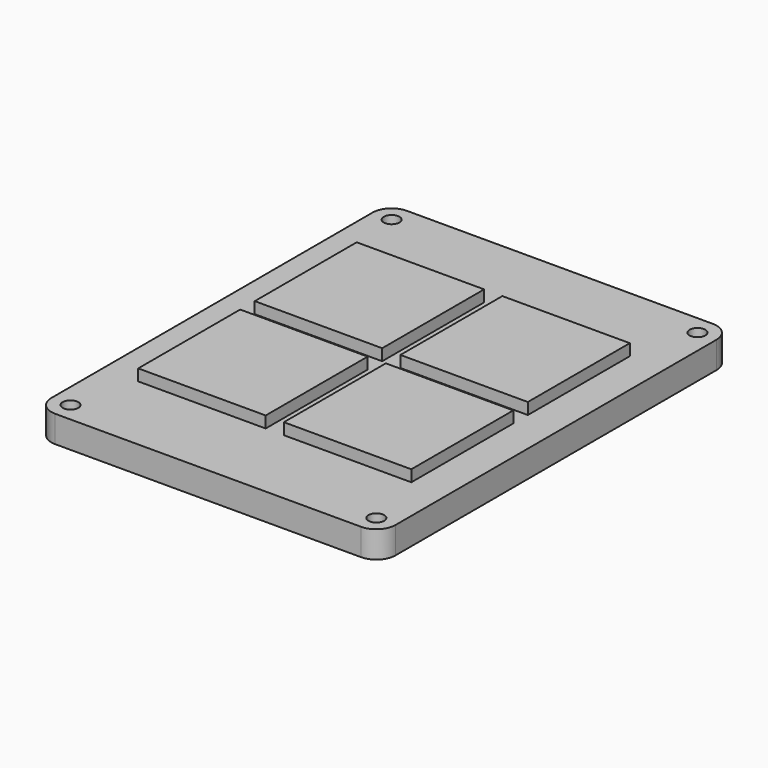
from build123d import *

# Parameters (mm, degrees)
F0_R     = 2.05
F0_W     = 33.3375
F0_H     = 33.3375
F0_R_2   = 11.90625
F1_DEPTH = 7
F2_DEPTH = 10


with BuildPart() as f1:
    # F0 (on Top) → F1 (new body)
    with BuildSketch(Plane.XY):
        with BuildLine():
            Line((-15.9621723817, 51.5441118397), (-95.9621723817, 51.5441118397))
            ThreePointArc((-95.9621723817, 51.5441118397), (-99.4977062877, 50.0796457456), (-100.9621723817, 46.5441118397))
            Line((-100.9621723817, 46.5441118397), (-100.9621723817, -58.4558881603))
            ThreePointArc((-100.9621723817, -58.4558881603), (-99.4977062877, -61.9914220662), (-95.9621723817, -63.4558881603))
            Line((-95.9621723817, -63.4558881603), (-15.9621723817, -63.4558881603))
            ThreePointArc((-15.9621723817, -63.4558881603), (-12.4266384758, -61.9914220662), (-10.9621723817, -58.4558881603))
            Line((-10.9621723817, -58.4558881603), (-10.9621723817, 46.5441118397))
            ThreePointArc((-10.9621723817, 46.5441118397), (-12.4266384758, 50.0796457456), (-15.9621723817, 51.5441118397))
        make_face()
        with Locations((-95.9621723817, -58.4558881603)):
            Circle(F0_R, mode=Mode.SUBTRACT)
        with Locations((-15.9621723817, -58.4558881603)):
            Circle(F0_R, mode=Mode.SUBTRACT)
        with Locations((-75.0121723817, -25.0058881603)):
            Rectangle(F0_W, F0_H, mode=Mode.SUBTRACT)
        with Locations((-36.9121723817, -25.0058881603)):
            Rectangle(F0_W, F0_H, mode=Mode.SUBTRACT)
        with Locations((-75.0121723817, 13.0941118397)):
            Rectangle(F0_W, F0_H, mode=Mode.SUBTRACT)
        with Locations((-36.9121723817, 13.0941118397)):
            Rectangle(F0_W, F0_H, mode=Mode.SUBTRACT)
        with Locations((-95.9621723817, 46.5441118397)):
            Circle(F0_R, mode=Mode.SUBTRACT)
        with Locations((-15.9621723817, 46.5441118397)):
            Circle(F0_R, mode=Mode.SUBTRACT)
        with Locations((-75.0121723817, 13.0941118397)):
            Rectangle(F0_W, F0_H)
        with Locations((-75.0121723817, 13.0941118397)):
            Circle(F0_R_2, mode=Mode.SUBTRACT)
        with Locations((-36.9121723817, 13.0941118397)):
            Rectangle(F0_W, F0_H)
        with Locations((-36.9121723817, 13.0941118397)):
            Circle(F0_R_2, mode=Mode.SUBTRACT)
        with Locations((-75.0121723817, -25.0058881603)):
            Rectangle(F0_W, F0_H)
        with Locations((-75.0121723817, -25.0058881603)):
            Circle(F0_R_2, mode=Mode.SUBTRACT)
        with Locations((-36.9121723817, -25.0058881603)):
            Rectangle(F0_W, F0_H)
        with Locations((-36.9121723817, -25.0058881603)):
            Circle(F0_R_2, mode=Mode.SUBTRACT)
    extrude(amount=F1_DEPTH)


with BuildPart() as f2:
    # F0 (on Top) → F2 (new body)
    with BuildSketch(Plane.XY):
        with Locations((-36.9121723817, 13.0941118397)):
            Rectangle(F0_W, F0_H)
        with Locations((-36.9121723817, 13.0941118397)):
            Circle(F0_R_2, mode=Mode.SUBTRACT)
        with Locations((-36.9121723817, 13.0941118397)):
            Circle(F0_R_2)
    extrude(amount=F2_DEPTH)


with BuildPart() as f2b:
    # F0 (on Top) → F2, piece 2 (new body)
    with BuildSketch(Plane.XY):
        with Locations((-75.0121723817, 13.0941118397)):
            Rectangle(F0_W, F0_H)
        with Locations((-75.0121723817, 13.0941118397)):
            Circle(F0_R_2, mode=Mode.SUBTRACT)
        with Locations((-75.0121723817, 13.0941118397)):
            Circle(F0_R_2)
    extrude(amount=F2_DEPTH)


with BuildPart() as f2c:
    # F0 (on Top) → F2, piece 3 (new body)
    with BuildSketch(Plane.XY):
        with Locations((-36.9121723817, -25.0058881603)):
            Rectangle(F0_W, F0_H)
        with Locations((-36.9121723817, -25.0058881603)):
            Circle(F0_R_2, mode=Mode.SUBTRACT)
        with Locations((-36.9121723817, -25.0058881603)):
            Circle(F0_R_2)
    extrude(amount=F2_DEPTH)


with BuildPart() as f2d:
    # F0 (on Top) → F2, piece 4 (new body)
    with BuildSketch(Plane.XY):
        with Locations((-75.0121723817, -25.0058881603)):
            Rectangle(F0_W, F0_H)
        with Locations((-75.0121723817, -25.0058881603)):
            Circle(F0_R_2, mode=Mode.SUBTRACT)
        with Locations((-75.0121723817, -25.0058881603)):
            Circle(F0_R_2)
    extrude(amount=F2_DEPTH)


solid = Compound([f1.part, f2.part, f2b.part, f2c.part, f2d.part])
